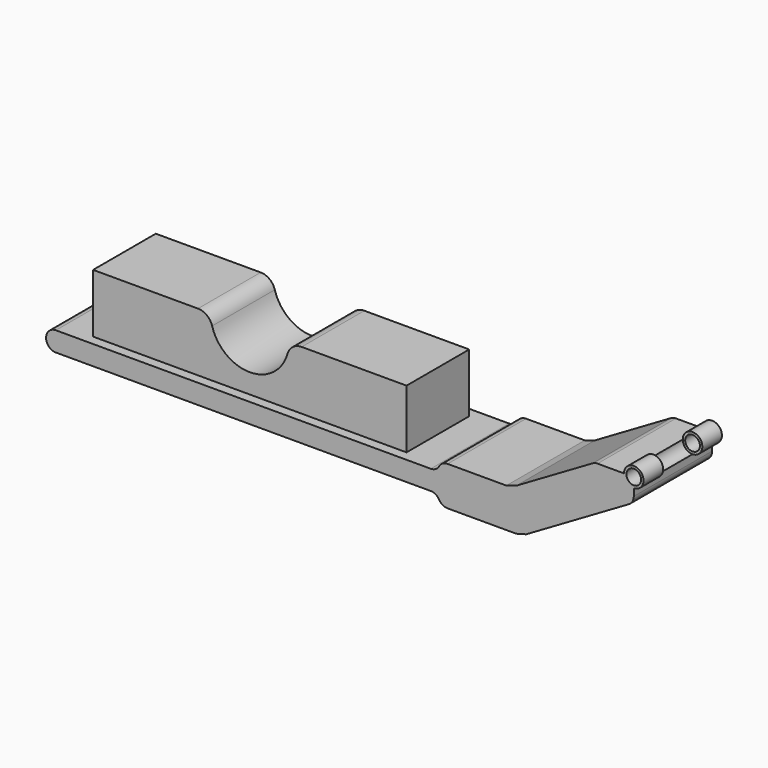
from build123d import *

# Parameters (mm, degrees)
F1_DEPTH      = 31.75
F1_DEPTH_BACK = 31.75
F2_DEPTH      = 25.4
F2_DEPTH_BACK = 25.4
F4_R          = 6.35
F5_DEPTH      = 31.75


with BuildPart() as f1:
    # F0 (on Front) → F1 (new body, two sides)
    with BuildSketch(Plane.XZ) as f1_sk:
        with BuildLine():
            Line((0, -11.0555849444), (0, -6.35))
            ThreePointArc((0, -6.35), (4.4901280605, 4.4901280605), (-6.35, 0))
            Line((-6.35, 0), (-23.488145619, 0))
            ThreePointArc((-23.488145619, 0), (-25.145368487, -0.2200642446), (-26.6877266311, -0.8650039793))
            Line((-26.6877266311, -0.8650039793), (-76.2, -29.7471634445))
            Line((-76.2, -29.7471634445), (-82.5991620242, -31.75))
            Line((-82.5991620242, -31.75), (-120.65, -31.75))
            ThreePointArc((-120.65, -31.75), (-123.825, -32.600738686), (-126.149261314, -34.925))
            ThreePointArc((-126.149261314, -34.925), (-128.4735226281, -37.249261314), (-131.6485226281, -38.1))
            Line((-131.6485226281, -38.1), (-152.4, -38.1))
            Line((-152.4, -38.1), (-355.6, -38.1))
            Line((-355.6, -38.1), (-374.65, -38.1))
            ThreePointArc((-374.65, -38.1), (-379.1401280605, -39.9598719395), (-381, -44.45))
            ThreePointArc((-381, -44.45), (-379.1401280605, -48.9401280605), (-374.65, -50.8))
            Line((-374.65, -50.8), (-131.6485226281, -50.8))
            ThreePointArc((-131.6485226281, -50.8), (-128.4735226281, -51.650738686), (-126.149261314, -53.975))
            ThreePointArc((-126.149261314, -53.975), (-123.825, -56.299261314), (-120.65, -57.15))
            Line((-120.65, -57.15), (-76.2, -57.15))
            Line((-76.2, -57.15), (-69.8008379758, -55.4199920414))
            Line((-69.8008379758, -55.4199920414), (-3.1504189879, -16.5405809651))
            ThreePointArc((-3.1504189879, -16.5405809651), (-0.8436473312, -14.2182705574), (0, -11.0555849444))
        make_face()
        with BuildLine():
            ThreePointArc((-4.7625, 0), (0, 4.7625), (4.7625, 0))
            ThreePointArc((4.7625, 0), (0, -4.7625), (-4.7625, 0))
        make_face(mode=Mode.SUBTRACT)
    extrude(amount=F1_DEPTH)
    extrude(f1_sk.sketch, amount=-F1_DEPTH_BACK)

    # F0 (on Front) → F2 (join, two sides)
    with BuildSketch(Plane.XZ) as f2_sk:
        with BuildLine():
            Line((0, -11.0555849444), (0, -6.35))
            ThreePointArc((0, -6.35), (4.4901280605, 4.4901280605), (-6.35, 0))
            Line((-6.35, 0), (-23.488145619, 0))
            ThreePointArc((-23.488145619, 0), (-25.145368487, -0.2200642446), (-26.6877266311, -0.8650039793))
            Line((-26.6877266311, -0.8650039793), (-76.2, -29.7471634445))
            Line((-76.2, -29.7471634445), (-82.5991620242, -31.75))
            Line((-82.5991620242, -31.75), (-120.65, -31.75))
            ThreePointArc((-120.65, -31.75), (-123.825, -32.600738686), (-126.149261314, -34.925))
            ThreePointArc((-126.149261314, -34.925), (-128.4735226281, -37.249261314), (-131.6485226281, -38.1))
            Line((-131.6485226281, -38.1), (-152.4, -38.1))
            Line((-152.4, -38.1), (-355.6, -38.1))
            Line((-355.6, -38.1), (-374.65, -38.1))
            ThreePointArc((-374.65, -38.1), (-379.1401280605, -39.9598719395), (-381, -44.45))
            ThreePointArc((-381, -44.45), (-379.1401280605, -48.9401280605), (-374.65, -50.8))
            Line((-374.65, -50.8), (-131.6485226281, -50.8))
            ThreePointArc((-131.6485226281, -50.8), (-128.4735226281, -51.650738686), (-126.149261314, -53.975))
            ThreePointArc((-126.149261314, -53.975), (-123.825, -56.299261314), (-120.65, -57.15))
            Line((-120.65, -57.15), (-76.2, -57.15))
            Line((-76.2, -57.15), (-69.8008379758, -55.4199920414))
            Line((-69.8008379758, -55.4199920414), (-3.1504189879, -16.5405809651))
            ThreePointArc((-3.1504189879, -16.5405809651), (-0.8436473312, -14.2182705574), (0, -11.0555849444))
        make_face()
        with BuildLine():
            ThreePointArc((-4.7625, 0), (0, 4.7625), (4.7625, 0))
            ThreePointArc((4.7625, 0), (0, -4.7625), (-4.7625, 0))
        make_face(mode=Mode.SUBTRACT)
        with BuildLine():
            Line((-355.6, -38.1), (-152.4, -38.1))
            Line((-152.4, -38.1), (-152.4, 0))
            Line((-152.4, 0), (-220.3989583495, 0))
            ThreePointArc((-220.3989583495, 0), (-226.1427494637, -1.9266785646), (-229.5628787996, -6.9272727273))
            ThreePointArc((-229.5628787996, -6.9272727273), (-254, -25.4), (-278.4371212004, -6.9272727273))
            ThreePointArc((-278.4371212004, -6.9272727273), (-281.8572505363, -1.9266785646), (-287.6010416505, 0))
            Line((-287.6010416505, 0), (-355.6, 0))
            Line((-355.6, 0), (-355.6, -38.1))
        make_face()
    extrude(amount=F2_DEPTH)
    extrude(f2_sk.sketch, amount=-F2_DEPTH_BACK)

    # F4 (on offset) → F5 (cut)
    with BuildSketch(Plane.XZ.offset(15.875)):
        Circle(F4_R)
    extrude(amount=-F5_DEPTH, mode=Mode.SUBTRACT)


solid = f1.part
